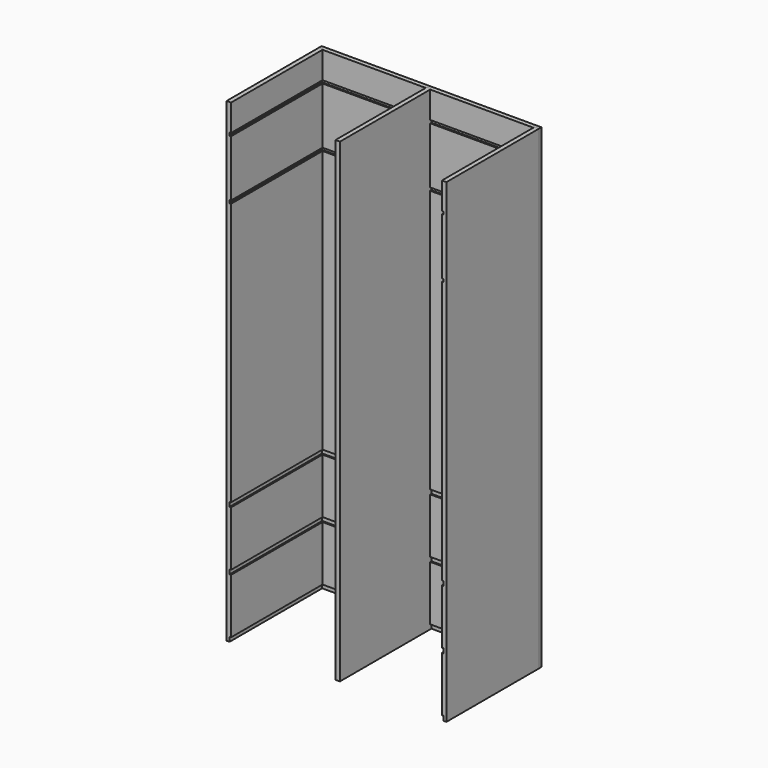
from build123d import *

# Parameters (mm, degrees)
F0_W      = 939.8
F0_H      = 2032
F1_DEPTH  = 19.05
F2_W      = 19.05
F2_H      = 2032
F3_DEPTH  = 6.35
F4_W      = 495.3
F4_H      = 2032
F5_DEPTH  = 19.0754
F6_W      = 495.3
F6_H      = 2032
F7_DEPTH  = 19.05
F8_W      = 488.95
F8_H      = 2032
F9_DEPTH  = 19.05
F10_W     = 901.7
F10_H     = 19.05
F10_H_2   = 12.7
F11_DEPTH = 6.35
F12_W     = 495.3
F12_H     = 19.05
F12_H_2   = 12.7
F13_DEPTH = 6.35
F14_W     = 495.3
F14_H     = 12.7
F14_H_2   = 19.05
F15_DEPTH = 6.35


with BuildPart() as f1:
    # F0 (on Front) → F1 (new body)
    with BuildSketch(Plane.XZ):
        with Locations((469.9, 1016)):
            Rectangle(F0_W, F0_H)
    extrude(amount=F1_DEPTH)

    # F2 (on face) → F3 (cut)
    with BuildSketch(Plane.XZ.offset(19.05)):
        with Locations((9.525, 1016)):
            Rectangle(F2_W, F2_H)
        with Locations((930.275, 1016)):
            Rectangle(F2_W, F2_H)
        Polygon((479.425, 2032), (469.9, 2032), (460.375, 2032), (460.375, 0), (469.9, 0), (479.425, 0), align=None)
    extrude(amount=-F3_DEPTH, mode=Mode.SUBTRACT)

    # F10 (on face) → F11 (cut)
    with BuildSketch(Plane.XZ.offset(19.05)):
        with Locations((469.9, 9.525)):
            Rectangle(F10_W, F10_H)
        with Locations((469.9, 263.525)):
            Rectangle(F10_W, F10_H)
        with Locations((469.9, 517.525)):
            Rectangle(F10_W, F10_H)
        with Locations((469.9, 1657.35)):
            Rectangle(F10_W, F10_H_2)
        with Locations((469.9, 1911.35)):
            Rectangle(F10_W, F10_H_2)
    extrude(amount=-F11_DEPTH, mode=Mode.SUBTRACT)


with BuildPart() as f5:
    # F4 (on face) → F5 (new body)
    with BuildSketch(Plane.YZ.offset(939.8)):
        with Locations((-260.35, 1016)):
            Rectangle(F4_W, F4_H)
    extrude(amount=-F5_DEPTH)

    # F14 (on face) → F15 (cut)
    with BuildSketch(Plane(origin=(920.7246, 0, 0), x_dir=(0, -1, 0), z_dir=(-1, 0, 0))):
        with Locations((260.35, 1911.35)):
            Rectangle(F14_W, F14_H)
        with Locations((260.35, 1657.35)):
            Rectangle(F14_W, F14_H)
        with Locations((260.35, 517.525)):
            Rectangle(F14_W, F14_H_2)
        with Locations((260.35, 263.525)):
            Rectangle(F14_W, F14_H_2)
        with Locations((260.35, 9.525)):
            Rectangle(F14_W, F14_H_2)
    extrude(amount=-F15_DEPTH, mode=Mode.SUBTRACT)


with BuildPart() as f7:
    # F6 (on face) → F7 (new body)
    with BuildSketch(Plane(origin=(0, 0, 0), x_dir=(0, -1, 0), z_dir=(-1, 0, 0))):
        with Locations((260.35, 1016)):
            Rectangle(F6_W, F6_H)
    extrude(amount=-F7_DEPTH)

    # F12 (on face) → F13 (cut)
    with BuildSketch(Plane.YZ.offset(19.05)):
        with Locations((-260.35, 263.525)):
            Rectangle(F12_W, F12_H)
        with Locations((-260.35, 517.525)):
            Rectangle(F12_W, F12_H)
        with Locations((-260.35, 1911.35)):
            Rectangle(F12_W, F12_H_2)
        with Locations((-260.35, 9.525)):
            Rectangle(F12_W, F12_H)
        with Locations((-260.35, 1657.35)):
            Rectangle(F12_W, F12_H_2)
    extrude(amount=-F13_DEPTH, mode=Mode.SUBTRACT)


with BuildPart() as f9:
    # F8 (on face) → F9 (new body)
    with BuildSketch(Plane(origin=(479.425, 0, 0), x_dir=(0, -1, 0), z_dir=(-1, 0, 0))):
        with Locations((257.175, 1016)):
            Rectangle(F8_W, F8_H)
    extrude(amount=F9_DEPTH)


solid = Compound([f1.part, f5.part, f7.part, f9.part])
